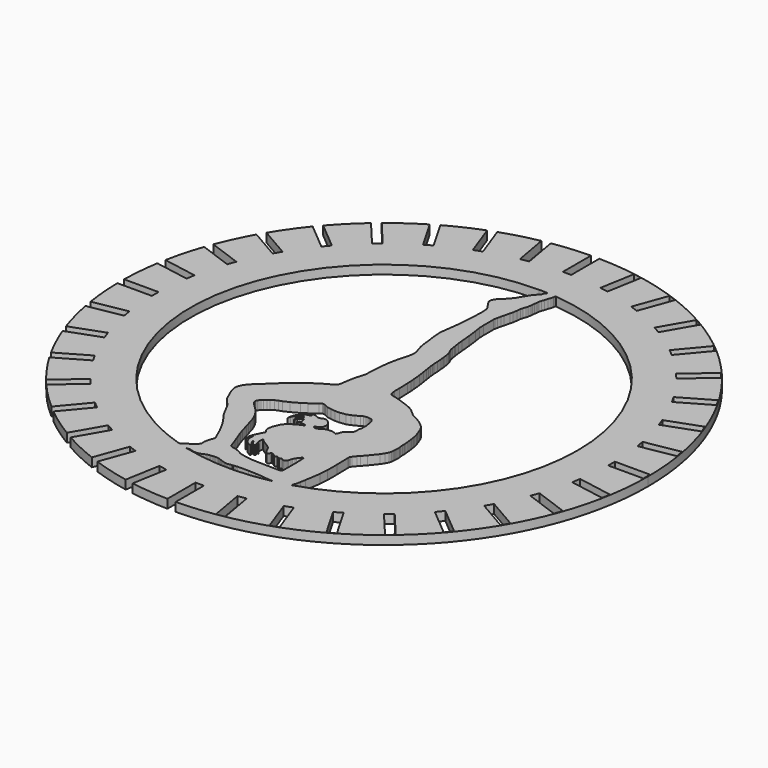
from build123d import *

# Parameters (mm, degrees)
F0_W     = 20
F0_H     = 4.75
F1_DEPTH = 5
F3_DEPTH = 5


with BuildPart() as f1:
    # F0 (on Top) → F1 (new body)
    with BuildSketch(Plane.XY):
        with BuildLine():
            ThreePointArc((1.597222, -149.991496), (106.629225, -105.499803), (150, 0))
            ThreePointArc((150, 0), (106.902409, 105.222978), (2.375, 149.981197))
            Line((2.375, 149.981197), (2.375, 130))
            Line((2.375, 130), (0, 130))
            Line((0, 130), (-2.375, 130))
            Line((-2.375, 130), (-2.375, 149.981197))
            ThreePointArc((-2.375, 149.981197), (-13.070418, 149.429462), (-23.699208, 148.115993))
            Line((-23.699208, 148.115993), (-20.241253, 128.504952))
            Line((-20.241253, 128.504952), (-24.91909, 127.680123))
            Line((-24.91909, 127.680123), (-28.377078, 147.291349))
            ThreePointArc((-28.377078, 147.291349), (-38.808675, 144.892673), (-49.042654, 141.756192))
            Line((-49.042654, 141.756192), (-42.254302, 123.105346))
            Line((-42.254302, 123.105346), (-46.717841, 121.480751))
            Line((-46.717841, 121.480751), (-53.506448, 140.132295))
            ThreePointArc((-53.506448, 140.132295), (-63.358495, 135.962131), (-72.88825, 131.100355))
            Line((-72.88825, 131.100355), (-62.995291, 113.965247))
            Line((-62.995291, 113.965247), (-67.108912, 111.590247))
            Line((-67.108912, 111.590247), (-77.002696, 128.726784))
            ThreePointArc((-77.002696, 128.726784), (-85.977844, 122.913833), (-94.516059, 116.476241))
            Line((-94.516059, 116.476241), (-81.834016, 101.362371))
            Line((-81.834016, 101.362371), (-85.472728, 98.30913))
            Line((-85.472728, 98.30913), (-98.156622, 113.425207))
            ThreePointArc((-98.156622, 113.425207), (-105.984694, 106.147278), (-113.274614, 98.330371))
            Line((-113.274614, 98.330371), (-98.198073, 85.679651))
            Line((-98.198073, 85.679651), (-101.251314, 82.04094))
            Line((-101.251314, 82.04094), (-116.331225, 94.694488))
            ThreePointArc((-116.331225, 94.694488), (-122.777115, 86.172966), (-128.600028, 77.2142))
            Line((-128.600028, 77.2142), (-111.590247, 67.393598))
            Line((-111.590247, 67.393598), (-113.965247, 63.279977))
            Line((-113.965247, 63.279977), (-130.980362, 73.103658))
            ThreePointArc((-130.980362, 73.103658), (-135.850845, 63.596761), (-140.032397, 53.767349))
            Line((-140.032397, 53.767349), (-121.603624, 47.059825))
            Line((-121.603624, 47.059825), (-123.22822, 42.596285))
            Line((-123.22822, 42.596285), (-141.664608, 49.306581))
            ThreePointArc((-141.664608, 49.306581), (-144.813896, 39.101606), (-147.229077, 28.698413))
            Line((-147.229077, 28.698413), (-127.933953, 25.296162))
            Line((-127.933953, 25.296162), (-128.758781, 20.618325))
            Line((-128.758781, 20.618325), (-148.063929, 24.022344))
            ThreePointArc((-148.063929, 24.022344), (-149.397831, 13.427143), (-149.974534, 2.763889))
            Line((-149.974534, 2.763889), (-130.388889, 2.763889))
            Line((-130.388889, 2.763889), (-130.388889, -1.986111))
            Line((-130.388889, -1.986111), (-149.986851, -1.986111))
            ThreePointArc((-149.986851, -1.986111), (-149.465453, -12.65221), (-148.186514, -23.254183))
            Line((-148.186514, -23.254183), (-128.893841, -19.852364))
            Line((-128.893841, -19.852364), (-128.069012, -24.530201))
            Line((-128.069012, -24.530201), (-147.375921, -27.93453))
            ThreePointArc((-147.375921, -27.93453), (-145.014723, -38.350099), (-141.918401, -48.571261))
            Line((-141.918401, -48.571261), (-123.494235, -41.865413))
            Line((-123.494235, -41.865413), (-121.86964, -46.328953))
            Line((-121.86964, -46.328953), (-140.309338, -53.040454))
            ThreePointArc((-140.309338, -53.040454), (-136.17882, -62.891405), (-131.357711, -72.423421))
            Line((-131.357711, -72.423421), (-114.354136, -62.606402))
            Line((-114.354136, -62.606402), (-111.979136, -66.720023))
            Line((-111.979136, -66.720023), (-128.99871, -76.546279))
            ThreePointArc((-128.99871, -76.546279), (-123.222343, -85.535105), (-116.820743, -94.089925))
            Line((-116.820743, -94.089925), (-101.75126, -81.445128))
            Line((-101.75126, -81.445128), (-98.698019, -85.083839))
            Line((-98.698019, -85.083839), (-113.783001, -97.741642))
            ThreePointArc((-113.783001, -97.741642), (-106.533732, -105.596231), (-98.743524, -112.914642))
            Line((-98.743524, -112.914642), (-86.06854, -97.809184))
            Line((-86.06854, -97.809184), (-82.429829, -100.862425))
            Line((-82.429829, -100.862425), (-95.118795, -115.984546))
            ThreePointArc((-95.118795, -115.984546), (-86.6141, -122.466313), (-77.669239, -128.325716))
            Line((-77.669239, -128.325716), (-67.782487, -111.201358))
            Line((-67.782487, -111.201358), (-63.668866, -113.576358))
            Line((-63.668866, -113.576358), (-73.56711, -130.720619))
            ThreePointArc((-73.56711, -130.720619), (-64.062721, -135.631736), (-54.23246, -139.852924))
            Line((-54.23246, -139.852924), (-47.448714, -121.214735))
            Line((-47.448714, -121.214735), (-42.985174, -122.839331))
            Line((-42.985174, -122.839331), (-49.777091, -141.499969))
            ThreePointArc((-49.777091, -141.499969), (-39.559543, -144.689469), (-29.140556, -147.142203))
            Line((-29.140556, -147.142203), (-25.685051, -127.545064))
            Line((-25.685051, -127.545064), (-21.007214, -128.369892))
            Line((-21.007214, -128.369892), (-24.466964, -147.991107))
            ThreePointArc((-24.466964, -147.991107), (-13.845159, -149.359672), (-3.152778, -149.966863))
            Line((-3.152778, -149.966863), (-3.152778, -130))
            Line((-3.152778, -130), (1.597222, -130))
            Line((1.597222, -130), (1.597222, -149.991496))
        make_face()
        Polygon((24.141312, -127.680123), (27.614275, -147.376278), (22.936439, -148.201107), (19.463475, -128.504952), align=None, mode=Mode.SUBTRACT)
        Polygon((45.940064, -121.480751), (52.780467, -140.274603), (48.316927, -141.899199), (41.476524, -123.105346), align=None, mode=Mode.SUBTRACT)
        Polygon((66.331134, -111.590247), (76.331134, -128.910755), (72.217513, -131.285755), (62.217513, -113.965247), align=None, mode=Mode.SUBTRACT)
        Polygon((84.69495, -98.30913), (97.550702, -113.630019), (93.911991, -116.68326), (81.056239, -101.362371), align=None, mode=Mode.SUBTRACT)
        Polygon((100.473536, -82.04094), (115.794425, -94.896692), (112.741184, -98.535403), (97.420295, -85.679651), align=None, mode=Mode.SUBTRACT)
        Polygon((113.187469, -63.279977), (130.507977, -73.279977), (128.132977, -77.393598), (110.812469, -67.393598), align=None, mode=Mode.SUBTRACT)
        Polygon((122.450442, -42.596285), (141.244294, -49.436688), (139.619699, -53.900227), (120.825846, -47.059825), align=None, mode=Mode.SUBTRACT)
        Polygon((127.981004, -20.618325), (147.677159, -24.091289), (146.85233, -28.769126), (127.156175, -25.296162), align=None, mode=Mode.SUBTRACT)
        with Locations((139.611111, -0.388889)):
            Rectangle(F0_W, F0_H, mode=Mode.SUBTRACT)
        with BuildLine():
            ThreePointArc((110, 0), (-77.781746, -77.781746), (0, 110))
            ThreePointArc((0, 110), (77.781746, 77.781746), (110, 0))
        make_face(mode=Mode.SUBTRACT)
        Polygon((127.291234, 24.530201), (146.987389, 28.003164), (147.812218, 23.325327), (128.116063, 19.852364), align=None, mode=Mode.SUBTRACT)
        Polygon((121.091862, 46.328953), (139.885714, 53.169355), (141.51031, 48.705816), (122.716457, 41.865413), align=None, mode=Mode.SUBTRACT)
        Polygon((111.201358, 66.720023), (128.521866, 76.720023), (130.896866, 72.606402), (113.576358, 62.606402), align=None, mode=Mode.SUBTRACT)
        Polygon((20.229437, 128.369892), (23.7024, 148.066048), (28.380237, 147.241219), (24.907273, 127.545064), align=None, mode=Mode.SUBTRACT)
        Polygon((62.891088, 113.576358), (72.891088, 130.896866), (77.004709, 128.521866), (67.004709, 111.201358), align=None, mode=Mode.SUBTRACT)
        Polygon((42.207396, 122.839331), (49.047799, 141.633183), (53.511339, 140.008587), (46.670936, 121.214735), align=None, mode=Mode.SUBTRACT)
        Polygon((97.920241, 85.083839), (113.24113, 97.939591), (116.294371, 94.30088), (100.973482, 81.445128), align=None, mode=Mode.SUBTRACT)
        Polygon((81.652051, 100.862425), (94.507803, 116.183314), (98.146514, 113.130073), (85.290762, 97.809184), align=None, mode=Mode.SUBTRACT)
    extrude(amount=F1_DEPTH)

    # F2 (on Top) → F3 (join)
    with BuildSketch(Plane.XY):
        Polygon((10.227165, 111.873596), (6.825961, 111.873596), (5.328762, 110.022679), (4.155282, 108.404085), (3.774695, 107.291847), (3.07694, 106.377542), (1.657369, 104.885794), (0.574645, 103.562467), (-0.339655, 102.022588), (-1.855468, 99.496238), (-3.066121, 97.478488), (-4.650265, 95.476113), (-6.309816, 93.587659), (-7.826302, 92.242852), (-8.942207, 91.04111), (-9.480865, 90.418324), (-10.022226, 89.323565), (-10.238771, 88.577695), (-10.371104, 87.928057), (-10.371104, 87.555118), (-9.877863, 86.50849), (-9.168077, 85.401699), (-8.397451, 84.200039), (-7.387599, 82.791142), (-6.913477, 82.05183), (-6.497359, 81.010662), (-6.302676, 79.6123), (-6.19209, 78.089602), (-6.276006, 74.36157), (-6.3951, 71.715996), (-6.738456, 66.236228), (-7.253488, 60.370572), (-8.180384, 53.606942), (-8.440994, 51.236276), (-8.501145, 49.798656), (-8.34068, 47.262933), (-8.040245, 44.530399), (-7.555319, 40.846899), (-7.374865, 38.849875), (-7.065906, 36.304381), (-6.656877, 34.379538), (-5.646335, 31.059187), (-5.306934, 29.944014), (-5.124158, 29.343465), (-4.979196, 28.570371), (-4.910118, 28.003355), (-4.910118, 27.252264), (-5.00311, 26.336651), (-5.412139, 24.190061), (-5.585334, 23.263082), (-6.960982, 18.403931), (-7.518295, 15.810775), (-8.040245, 12.795914), (-8.428293, 9.948926), (-8.64289, 7.37376), (-8.894883, 4.715431), (-9.076975, 1.356851), (-9.076975, -0.480592), (-9.076975, -0.926713), (-9.175281, -1.732741), (-9.630051, -3.559167), (-10.135861, -4.995668), (-10.54051, -6.290542), (-11.005854, -8.253085), (-11.456894, -10.747177), (-11.771636, -12.707164), (-12.114991, -14.95328), (-12.450022, -16.366236), (-12.620262, -16.654532), (-12.945079, -17.063562), (-13.173654, -17.292136), (-15.098496, -18.651556), (-18.226365, -20.395944), (-20.14808, -21.500835), (-23.409955, -23.818485), (-26.729058, -26.250586), (-29.790644, -28.682686), (-33.166971, -31.629819), (-36.225926, -34.54053), (-39.373349, -37.516277), (-42.949971, -40.835381), (-43.824187, -41.646653), (-44.027567, -41.920409), (-44.917807, -43.249752), (-45.455882, -44.053229), (-45.769025, -44.683877), (-46.100784, -45.46649), (-46.271879, -46.00912), (-46.407023, -46.579075), (-46.480507, -47.018886), (-46.529874, -47.448542), (-46.554447, -47.716502), (-46.536088, -48.181754), (-46.407023, -48.540879), (-46.321656, -48.821371), (-46.219464, -49.854159), (-45.99404, -50.785642), (-45.261506, -52.584007), (-44.281512, -54.665599), (-43.339536, -56.948915), (-43.056283, -57.60647), (-42.398728, -58.688901), (-41.053273, -60.287263), (-40.009447, -61.412076), (-39.206237, -62.277604), (-38.635504, -63.069217), (-37.837036, -64.445965), (-36.98637, -66.036716), (-36.025114, -67.865655), (-35.189928, -69.454728), (-34.357801, -70.902541), (-33.821885, -71.778722), (-32.486334, -73.565125), (-31.584628, -74.764565), (-31.278387, -75.198404), (-30.679561, -76.046737), (-29.53434, -77.821925), (-28.261065, -80.017969), (-27.458492, -81.54499), (-26.171522, -83.993652), (-25.832638, -84.730789), (-25.773452, -84.925256), (-24.345523, -88.067412), (-23.472829, -89.970179), (-23.272539, -90.406522), (-23.225561, -90.560875), (-23.187058, -90.817668), (-23.187058, -91.247424), (-23.303412, -91.847144), (-23.56712, -92.625506), (-23.843586, -93.191199), (-23.983946, -93.710102), (-24.12856, -94.399147), (-24.307201, -95.054165), (-24.459413, -95.779413), (-24.580635, -96.357004), (-24.648713, -96.856326), (-24.681797, -97.124003), (-24.681797, -97.530022), (-24.599257, -98.080508), (-24.580635, -98.58568), (-24.580635, -98.934554), (-24.612215, -99.085022), (-24.8021, -99.385694), (-25.078796, -99.758632), (-25.419336, -100.079037), (-26.370715, -100.973189), (-27.565306, -101.888806), (-29.768504, -103.376672), (-31.6355, -104.592726), (-32.036039, -104.776581), (-32.660336, -105.063146), (-33.662526, -105.36816), (-34.747049, -105.698233), (-35.274112, -105.858643), (-35.722665, -105.995159), (-36.204604, -106.067421), (-36.588561, -106.184278), (-36.766092, -106.265768), (-36.822163, -106.354554), (-36.851586, -106.494745), (-36.799748, -106.665071), (-36.673837, -106.858381), (-36.456236, -107.019826), (-36.312895, -107.06839), (-36.186532, -107.094911), (-32.784738, -107.094911), (-31.025041, -107.094911), (-30.821911, -107.064453), (-30.432938, -107.006131), (-30.059707, -106.950169), (-29.535847, -106.871621), (-29.467629, -106.861392), (-29.228844, -106.861392), (-28.903464, -106.861392), (-28.298929, -106.8253), (-28.028232, -106.742913), (-27.642901, -106.685137), (-26.957698, -106.632158), (-26.514927, -106.592081), (-26.233001, -106.567942), (-25.948659, -106.548272), (-25.697712, -106.548272), (-25.329798, -106.569536), (-24.744624, -106.626764), (-24.058126, -106.770843), (-23.534493, -106.948249), (-23.187058, -107.06596), (-22.539041, -107.201963), (-22.07031, -107.300338), (-21.232383, -107.300338), (-20.481294, -107.300338), (-20.06283, -107.266977), (-19.738337, -107.168219), (-19.257433, -107.096112), (-19.017995, -107.023239), (-18.30671, -106.737636), (-17.455474, -106.383555), (-16.842069, -106.10199), (-16.346009, -105.874288), (-15.787294, -105.704245), (-15.10206, -105.528742), (-14.588911, -105.451801), (-13.86455, -105.451801), (-13.295177, -105.366429), (-12.798647, -105.291979), (-12.165655, -105.249777), (-11.725731, -105.249777), (-11.261879, -105.218852), (-10.763621, -105.218852), (-10.409536, -105.218852), (-10.094794, -105.249777), (-9.848007, -105.364226), (-9.635887, -105.436092), (-8.889473, -105.621748), (-8.26828, -105.832207), (-7.566124, -106.10459), (-6.854377, -106.383562), (-5.656751, -106.789316), (-5.184387, -106.949352), (-4.742581, -107.042076), (-4.161184, -107.096112), (-3.492356, -107.096112), (-2.966492, -107.061053), (-2.630569, -106.958815), (-2.0876, -106.877402), (-1.49018, -106.837572), (-1.017336, -106.837572), (-0.795248, -106.804272), (-0.611747, -106.663624), (-0.115538, -106.630542), (0.54207, -106.630542), (0.977686, -106.601499), (1.233615, -106.523608), (1.476191, -106.412261), (1.901684, -106.383893), (2.294613, -106.383893), (2.813222, -106.383893), (3.964894, -106.383893), (4.987807, -106.383893), (7.970706, -106.383893), (12.206987, -106.53872), (14.882298, -106.739007), (18.172788, -107.096112), (21.16284, -107.368492), (24.69654, -107.726157), (27.228786, -107.940756), (28.882843, -108.044796), (29.538492, -108.044796), (30.155541, -107.761558), (30.524973, -107.413203), (30.958062, -106.589131), (31.752057, -104.760535), (32.442411, -102.722882), (32.881606, -100.63024), (33.432376, -97.421147), (34.747481, -88.883072), (35.09143, -84.108226), (35.09143, -81.161648), (35.09143, -77.145509), (34.911487, -69.153704), (34.888057, -68.802274), (34.888057, -68.513036), (34.913864, -68.217978), (35.119644, -67.74406), (35.546925, -67.245133), (37.030172, -65.348312), (38.064774, -64.277619), (40.212177, -61.871562), (43.720782, -57.479344), (44.976285, -55.491325), (45.839682, -53.812928), (46.145628, -52.909896), (46.249595, -52.146532), (46.333868, -51.364008), (46.379518, -50.914809), (46.40298, -50.478585), (46.408966, -50.354298), (46.427195, -50.174922), (46.447552, -49.97461), (46.49673, -49.49069), (46.555918, -49.127601), (46.567246, -49.040869), (46.567246, -47.960997), (46.567246, -47.510143), (46.4506, -46.982728), (46.379518, -46.20862), (46.255387, -44.856801), (46.255387, -43.597069), (46.171649, -42.685129), (45.94693, -40.237876), (45.819676, -38.852035), (45.616563, -37.481535), (45.394812, -36.029428), (45.266055, -35.256878), (44.600803, -32.631639), (44.235986, -31.444203), (43.134388, -28.597213), (42.576436, -27.288171), (42.068556, -26.394017), (41.245934, -25.414024), (39.822247, -24.032112), (38.08989, -22.708783), (35.90038, -21.325303), (34.336448, -20.423034), (33.209704, -19.910017), (32.584131, -19.609259), (31.856298, -19.11602), (30.869819, -18.334052), (29.402129, -17.052829), (28.361512, -16.108453), (27.543453, -15.422729), (25.696333, -14.413381), (23.892917, -13.630766), (20.898566, -12.524898), (17.870188, -11.47007), (15.30117, -10.653429), (13.718928, -10.279135), (12.862783, -10.067821), (12.411929, -9.897687), (11.990848, -9.727553), (11.705874, -9.49362), (11.591034, -9.302219), (11.407046, -8.966892), (11.274713, -8.455606), (11.137949, -7.560028), (10.930139, -6.199215), (10.930139, -4.198753), (10.930139, -2.744111), (10.745757, 3.057061), (10.613425, 5.956355), (10.416928, 8.096269), (9.999569, 12.641428), (9.435869, 16.332733), (9.046291, 18.883828), (8.760118, 20.757789), (8.505494, 22.425156), (8.348109, 24.139126), (8.23806, 25.337595), (8.124146, 27.833352), (7.87894, 30.503725), (7.713537, 32.305014), (7.628622, 33.229764), (7.279018, 35.51909), (7.067943, 36.901283), (6.608507, 38.030565), (5.920605, 39.477184), (5.58677, 40.49892), (5.368641, 41.035075), (5.208233, 42.085484), (4.947653, 43.791854), (4.775079, 44.92193), (4.393799, 47.418679), (4.124107, 50.35571), (3.612625, 55.925915), (2.934281, 61.291575), (2.401189, 64.782449), (2.264845, 67.769637), (2.264845, 72.284631), (2.264845, 74.995771), (2.342387, 75.758798), (2.602853, 77.214889), (3.047973, 79.175815), (3.505123, 80.980361), (4.28709, 84.216505), (4.696119, 85.84059), (5.032966, 88.102281), (5.335637, 90.234369), (5.649239, 91.741689), (6.205631, 93.208537), (6.506166, 94.153968), (6.741852, 95.814202), (6.89989, 96.927461), (7.033457, 98.241777), (7.169374, 99.579218), (7.307361, 100.937032), (7.740878, 102.300804), (8.189362, 103.711661), (8.783697, 105.58134), (9.260749, 107.082066), (9.581204, 108.090165), (9.581204, 108.617395), (9.772194, 109.218218), (10.094833, 109.567784), (10.287317, 109.772302), (10.31964, 110.090358), (10.443711, 110.337719), (10.612134, 110.530205), (10.708376, 110.999383), (10.621379, 111.569066), (10.383559, 111.757293), align=None)
        Polygon((-23.584343, -45.445353), (-21.900106, -44.903994), (-18.683163, -43.402087), (-14.646247, -41.18162), (-11.711618, -39.259641), (-7.919489, -36.267292), (-6.534951, -35.468113), (-6.017643, -35.417531), (-5.420786, -35.579391), (-4.459747, -36.054853), (-2.780457, -36.864147), (-0.3728, -37.289027), (2.095554, -37.562165), (4.604372, -37.541933), (8.106081, -37.046918), (10.188517, -36.267288), (11.92756, -35.506591), (13.973386, -34.304846), (15.232355, -33.618137), (16.341824, -33.417699), (17.469224, -33.335369), (18.60008, -33.474885), (19.811328, -33.743048), (20.290241, -34.217936), (21.032991, -35.159204), (21.339232, -36.452223), (21.927346, -39.599698), (21.927346, -42.94816), (21.735137, -43.747339), (21.473141, -44.464777), (21.522697, -45.143377), (21.522697, -46.286508), (21.330489, -47.894984), (20.695276, -48.743723), (19.226318, -49.705788), (17.739236, -51.101822), (17.203078, -51.958565), (16.838893, -53.205993), (16.200391, -54.55091), (15.958784, -54.521102), (15.432741, -54.27831), (14.66391, -53.964708), (13.389268, -53.661224), (12.075467, -53.648749), (10.657893, -53.75227), (9.555226, -54.126568), (7.805123, -55.370864), (6.085368, -55.896904), (4.780378, -55.896904), (4.436427, -55.502374), (4.475396, -54.903116), (4.88154, -54.703195), (5.701294, -54.464778), (6.366566, -54.215711), (7.248731, -53.519599), (7.744425, -52.3967), (7.906284, -50.929848), (7.773528, -50.113443), (7.468811, -49.299524), (6.741251, -48.188628), (5.971035, -47.424886), (5.117935, -46.816315), (4.419132, -46.522614), (3.496138, -46.429957), (2.798302, -46.480917), (1.760444, -46.991795), (0.768215, -47.356547), (0.488806, -47.322076), (-0.560927, -46.880882), (-1.70366, -46.423733), (-2.899341, -46.144967), (-4.236681, -46.242628), (-3.735954, -46.671823), (-3.206615, -47.186855), (-3.249534, -47.487292), (-3.664422, -47.830649), (-4.479891, -48.116777), (-5.695941, -48.374295), (-6.460794, -48.653267), (-8.085122, -50.291363), (-9.444237, -52.423026), (-9.863771, -54.128456), (-10.102334, -56.062154), (-9.614023, -54.445599), (-9.109298, -53.244705), (-8.571542, -51.965222), (-7.455637, -50.39151), (-6.568636, -49.347136), (-6.056084, -49.411048), (-5.796087, -49.618959), (-6.005902, -49.881338), (-6.420664, -50.299615), (-7.262782, -51.436473), (-7.719932, -53.102665), (-6.997217, -52.168817), (-7.016161, -51.929712), (-6.783868, -51.911308), (-6.733451, -51.502641), (-6.534951, -51.466547), (-6.534951, -51.207896), (-6.342467, -51.183838), (-6.292642, -50.730921), (-6.131937, -50.750747), (-5.975544, -50.323673), (-5.674787, -50.0951), (-5.511166, -50.213925), (-5.11538, -50.606385), (-4.756373, -50.981055), (-4.543557, -51.413395), (-4.560884, -51.804305), (-4.756373, -51.958565), (-5.049743, -52.65658), (-5.363345, -53.192742), (-5.970317, -53.617623), (-6.909944, -55.187761), (-6.890892, -55.448655), (-6.597522, -55.438537), (-6.213106, -54.922611), (-5.798342, -54.345988), (-5.313655, -53.493386), (-4.561819, -52.735178), (-4.088899, -52.425448), (-3.842205, -52.340381), (-3.625285, -52.446716), (-3.605179, -52.672144), (-3.605179, -52.884643), (-3.239691, -53.860884), (-2.984024, -54.694178), (-2.653345, -55.365958), (-2.797343, -55.511177), (-3.486384, -55.757873), (-4.507186, -56.062154), (-3.860678, -56.157686), (-3.069557, -56.166194), (-2.312462, -56.285284), (-0.815287, -56.149181), (0.09843, -56.171024), (0.256555, -56.32782), (0.310149, -56.763837), (0.142562, -56.932845), (0, -57.00302), (-0.321899, -57.161473), (-1.189581, -57.459209), (-2.78033, -58.318384), (-5.30424, -59.787653), (-7.104925, -61.183687), (-8.541426, -63.024841), (-10.043944, -66.614151), (-10.308614, -67.687139), (-10.477837, -69.318078), (-10.477837, -70.035465), (-10.33621, -70.73348), (-10.012492, -71.188711), (-9.147054, -72.285458), (-9.031219, -72.594859), (-9.19308, -72.999507), (-9.628076, -73.82904), (-11.438876, -77.45064), (-12.116662, -79.02877), (-12.509038, -80.469547), (-12.420608, -81.680492), (-12.256083, -82.639031), (-12.077163, -83.297158), (-11.233171, -84.134057), (-11.693835, -83.331288), (-11.977107, -82.574651), (-12.039972, -81.713801), (-11.948494, -80.972321), (-11.741051, -80.13539), (-11.5193, -79.663277), (-11.090105, -79.1554), (-11.090105, -79.656124), (-11.104412, -80.514513), (-11.104412, -81.648305), (-11.020953, -82.539721), (-10.442839, -83.71417), (-9.530701, -85.106894), (-8.709393, -85.667573), (-7.573752, -86.501226), (-6.965524, -86.641587), (-6.526485, -86.616069), (-6.526485, -86.547799), (-6.781685, -86.071424), (-7.470309, -84.825184), (-8.080505, -83.58556), (-8.278213, -83.057471), (-8.230092, -82.630396), (-7.8212, -82.889299), (-7.560551, -83.41881), (-7.159399, -84.031321), (-7.070075, -84.49769), (-5.90466, -85.458942), (-5.151819, -85.458942), (-5.151819, -85.31858), (-5.049739, -85.152701), (-4.811551, -85.101664), (-4.811551, -84.944285), (-5.022185, -84.771358), (-5.279419, -84.378593), (-5.411272, -83.923489), (-5.45887, -83.58556), (-4.56863, -83.562545), (-4.72591, -83.413156), (-5.218264, -82.92494), (-5.696961, -82.322187), (-5.879928, -81.950486), (-5.922034, -81.649728), (-5.927176, -81.18055), (-5.927176, -80.601282), (-5.876595, -78.927055), (-5.81309, -78.793183), (-5.760258, -78.739904), (-5.643922, -78.775309), (-5.532644, -78.90176), (-5.265501, -79.125051), (-4.465384, -79.918444), (-3.620681, -80.530472), (-2.816443, -80.990762), (-1.70366, -81.648305), (-0.216578, -82.649812), (0.875972, -83.58556), (1.405882, -84.306959), (1.872418, -85.254736), (2.712207, -86.960782), (3.324094, -87.895058), (3.617464, -88.061981), (3.966473, -88.061981), (4.409146, -87.95415), (4.684723, -87.773666), (4.952803, -87.484486), (5.322044, -86.95931), (5.488961, -86.802512), (5.939133, -86.802512), (6.384246, -86.802512), (6.647267, -86.878382), (6.864873, -87.04528), (7.101007, -87.27943), (7.619079, -87.793148), (8.053419, -88.223837), (8.225394, -88.264301), (8.575913, -88.199347), (9.057123, -87.976791), (9.50525, -87.754227), (9.679689, -87.748215), (9.833727, -87.8179), (9.884204, -87.952726), (9.884204, -88.064007), (9.917286, -88.21439), (10.148869, -88.464014), (10.548876, -88.692591), (10.858654, -88.677555), (11.105275, -88.632442), (11.372948, -88.430934), (11.716836, -88.273278), (11.91431, -88.199347), (12.239127, -88.199347), (12.518831, -88.199347), (12.771466, -88.265516), (12.931762, -88.463188), (13.084252, -88.614397), (13.490275, -88.806875), (13.89028, -88.912144), (14.254196, -88.912144), (14.642172, -88.79485), (14.979019, -88.635445), (15.300829, -88.370778), (15.487297, -87.976791), (15.622974, -87.484486), (15.984509, -86.131923), (16.260976, -85.425869), (16.847938, -84.337011), (17.247751, -83.716027), (18.268552, -82.401745), (18.642846, -81.982791), (19.074746, -81.606871), (19.2596, -81.537665), (19.406938, -81.482504), (19.531794, -81.497908), (19.627495, -81.565961), (19.657249, -81.670173), (19.657249, -81.863888), (19.764546, -84.031321), (19.857539, -87.064296), (19.857539, -89.546472), (19.857539, -92.150249), (19.857539, -94.603807), (19.76455, -96.935757), (19.507032, -97.336337), (18.584264, -97.522326), (15.880341, -97.522326), (10.250743, -97.400717), (5.11472, -97.293414), (2.73297, -97.169563), (0.779858, -96.928604), (-0.52203, -96.6997), (-2.57501, -96.35634), (-4.25602, -95.984377), (-5.014263, -95.726855), (-5.865498, -95.269054), (-7.138774, -94.589494), (-8.333365, -94.038695), (-9.728246, -93.502209), (-10.150287, -93.387753), (-11.251885, -93.251847), (-12.353485, -92.95141), (-12.739759, -92.686735), (-12.946789, -92.47287), (-13.090913, -92.087906), (-13.405009, -91.248937), (-14.669384, -87.694041), (-16.106292, -83.855978), (-17.468048, -80.21865), (-18.333592, -77.478953), (-19.470956, -73.558979), (-20.29358, -70.804983), (-20.858686, -68.787768), (-21.452405, -66.877857), (-21.996051, -65.425746), (-22.718528, -63.830577), (-23.420447, -62.453308), (-24.28918, -61.126858), (-25.057636, -59.953518), (-25.760396, -59.053722), (-26.69765, -58.124346), (-27.555978, -57.273232), (-28.77732, -56.062154), (-29.628554, -55.218074), (-30.799529, -53.790948), (-31.20942, -53.165093), (-31.359639, -52.778818), (-31.359639, -52.213714), (-31.294681, -51.754739), (-31.064998, -51.193297), (-30.648172, -50.614845), (-30.032564, -49.932644), (-29.178416, -49.066462), (-28.023511, -48.152164), (-26.988907, -47.322076), (-25.28061, -46.203259), align=None, mode=Mode.SUBTRACT)
    extrude(amount=F3_DEPTH)


solid = f1.part
